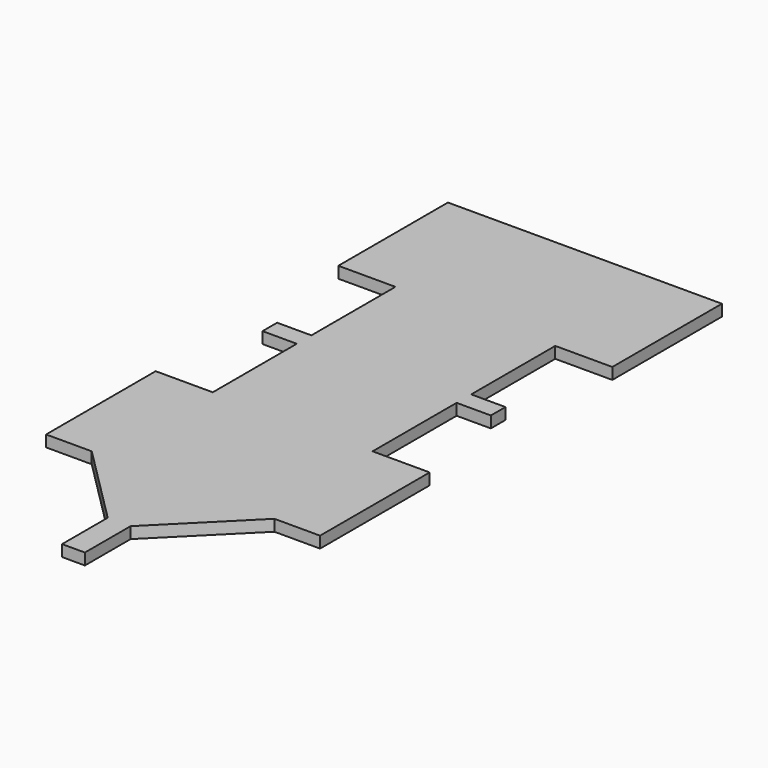
from build123d import *

# Parameters (mm, degrees)
F1_DEPTH = 5


with BuildPart() as f1:
    # F0 (on Top) → F1 (new body)
    with BuildSketch(Plane.XY):
        Polygon((40, -110), (60, -110), (60, -50), (35, -50), (35, -4), (50, -4), (50, 4), (35, 4), (35, 50), (60, 50), (60, 110), (-60, 110), (-60, 50), (-35, 50), (-35, 4), (-50, 4), (-50, -4), (-35, -4), (-35, -50), (-60, -50), (-60, -110), (-40, -110), (-5, -145), (-5, -170), (5, -170), (5, -145), align=None)
    extrude(amount=F1_DEPTH)


solid = f1.part
